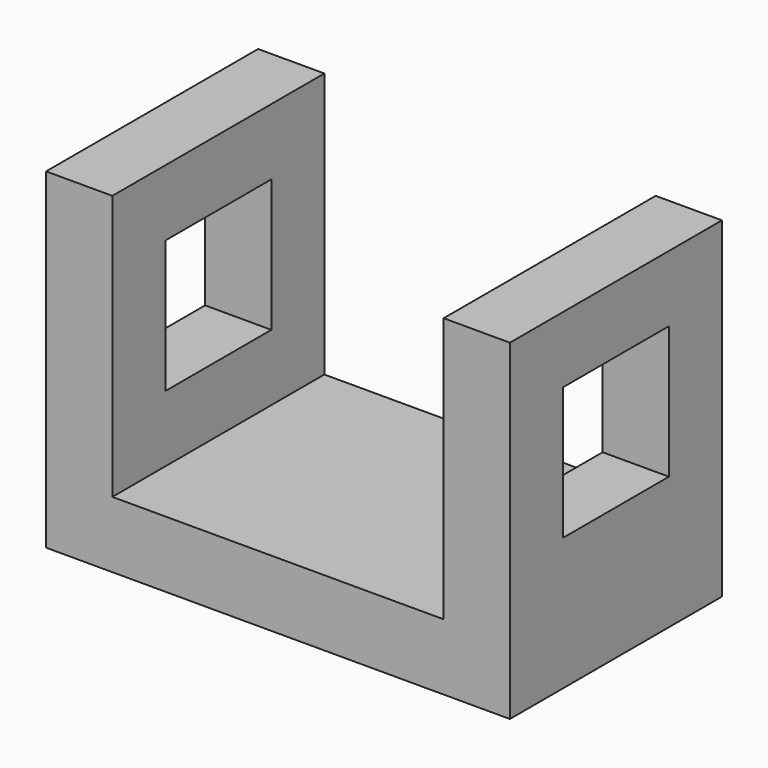
from build123d import *

# Parameters (mm, degrees)
F1_DEPTH = 50.8
F2_W     = 25.4
F2_H     = 25.4
F3_DEPTH = 88.901


with BuildPart() as f1:
    # F0 (on Front) → F1 (new body)
    with BuildSketch(Plane.XZ):
        Polygon((-33.933735, 63.5), (-46.633735, 63.5), (-46.633735, 0), (42.266265, 0), (42.266265, 63.5), (29.566265, 63.5), (29.566265, 12.7), (-33.933735, 12.7), align=None)
    extrude(amount=F1_DEPTH)

    # F2 (on face) → F3 (cut, through all)
    with BuildSketch(Plane(origin=(-46.633735, 0, 0), x_dir=(0, -1, 0), z_dir=(-1, 0, 0))):
        with Locations((25.4, 38.1)):
            Rectangle(F2_W, F2_H)
    extrude(amount=-F3_DEPTH, mode=Mode.SUBTRACT)


solid = f1.part
